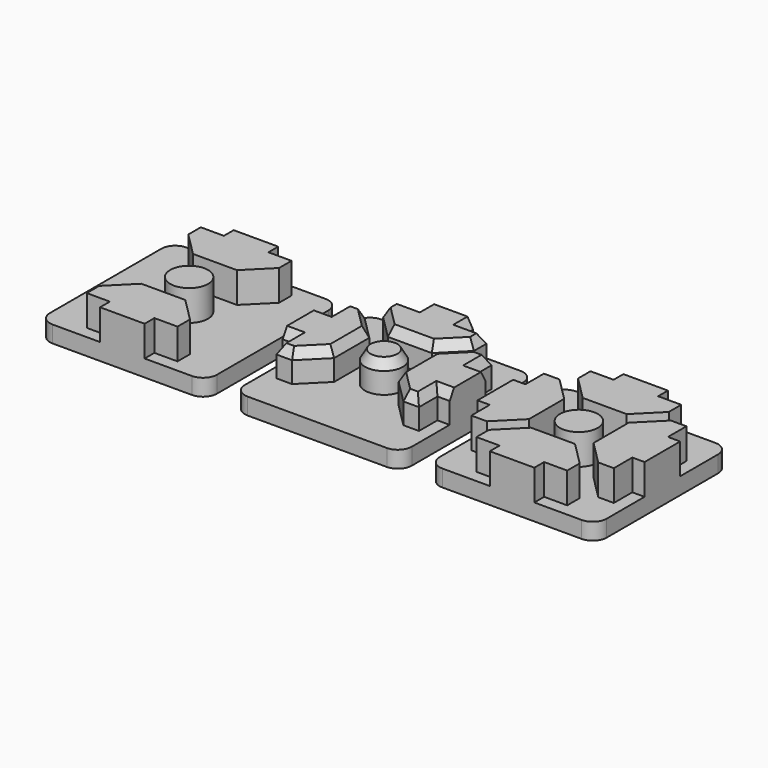
from build123d import *

# Parameters (mm, degrees)
F0_R       = 3.4
F1_DEPTH   = 3
F2_DEPTH   = 5.5
F3_DEPTH   = 3
F4_DEPTH   = 5.5
F5_DEPTH   = 3
F6_DEPTH   = 5.5
F7_SIZE2   = 1.7320508076
F7_SIZE    = 1
F7_2_SIZE2 = 1.7320508076
F7_2_SIZE  = 1
F7_3_SIZE2 = 1.7320508076
F7_3_SIZE  = 1
F8_SIZE2   = 1.7320508076
F8_SIZE    = 1


with BuildPart() as f1:
    # F0 (on Top) → F1 (new body)
    with BuildSketch(Plane.XY):
        with BuildLine():
            Line((-4, 15), (-12.5, 15))
            ThreePointArc((-12.5, 15), (-14.267766953, 14.267766953), (-15, 12.5))
            Line((-15, 12.5), (-15, 4))
            Line((-15, 4), (-12.8, 4))
            Line((-12.8, 4), (-12.8, 8.15))
            Line((-12.8, 8.15), (-10, 8.15))
            Line((-10, 8.15), (-5.8, 3.95))
            Line((-5.8, 3.95), (-5.8, -3.95))
            Line((-5.8, -3.95), (-10, -8.15))
            Line((-10, -8.15), (-12.8, -8.15))
            Line((-12.8, -8.15), (-12.8, -4))
            Line((-12.8, -4), (-15, -4))
            Line((-15, -4), (-15, -12.5))
            ThreePointArc((-15, -12.5), (-14.267766953, -14.267766953), (-12.5, -15))
            Line((-12.5, -15), (-4, -15))
            Line((-4, -15), (-4, -12.8))
            Line((-4, -12.8), (-8.15, -12.8))
            Line((-8.15, -12.8), (-8.15, -10))
            Line((-8.15, -10), (-3.95, -5.8))
            Line((-3.95, -5.8), (3.95, -5.8))
            Line((3.95, -5.8), (8.15, -10))
            Line((8.15, -10), (8.15, -12.8))
            Line((8.15, -12.8), (4, -12.8))
            Line((4, -12.8), (4, -15))
            Line((4, -15), (12.5, -15))
            ThreePointArc((12.5, -15), (14.267766953, -14.267766953), (15, -12.5))
            Line((15, -12.5), (15, -4))
            Line((15, -4), (12.8, -4))
            Line((12.8, -4), (12.8, -8.15))
            Line((12.8, -8.15), (10, -8.15))
            Line((10, -8.15), (5.8, -3.95))
            Line((5.8, -3.95), (5.8, 3.95))
            Line((5.8, 3.95), (10, 8.15))
            Line((10, 8.15), (12.8, 8.15))
            Line((12.8, 8.15), (12.8, 4))
            Line((12.8, 4), (15, 4))
            Line((15, 4), (15, 12.5))
            ThreePointArc((15, 12.5), (14.267766953, 14.267766953), (12.5, 15))
            Line((12.5, 15), (4, 15))
            Line((4, 15), (4, 12.8))
            Line((4, 12.8), (8.15, 12.8))
            Line((8.15, 12.8), (8.15, 10))
            Line((8.15, 10), (3.95, 5.8))
            Line((3.95, 5.8), (-3.95, 5.8))
            Line((-3.95, 5.8), (-8.15, 10))
            Line((-8.15, 10), (-8.15, 12.8))
            Line((-8.15, 12.8), (-4, 12.8))
            Line((-4, 12.8), (-4, 15))
        make_face()
        Circle(F0_R, mode=Mode.SUBTRACT)
        Polygon((15, -4), (15, 4), (12.8, 4), (12.8, 8.15), (10, 8.15), (5.8, 3.95), (5.8, -3.95), (10, -8.15), (12.8, -8.15), (12.8, -4), align=None)
        Polygon((-12.8, 4), (-15, 4), (-15, -4), (-12.8, -4), (-12.8, -8.15), (-10, -8.15), (-5.8, -3.95), (-5.8, 3.95), (-10, 8.15), (-12.8, 8.15), align=None)
        Polygon((-4, -12.8), (-4, -15), (4, -15), (4, -12.8), (8.15, -12.8), (8.15, -10), (3.95, -5.8), (-3.95, -5.8), (-8.15, -10), (-8.15, -12.8), align=None)
        Polygon((4, 15), (-4, 15), (-4, 12.8), (-8.15, 12.8), (-8.15, 10), (-3.95, 5.8), (3.95, 5.8), (8.15, 10), (8.15, 12.8), (4, 12.8), align=None)
        Circle(F0_R)
    extrude(amount=-F1_DEPTH)

    # F0 (on Top) → F2 (join)
    with BuildSketch(Plane.XY):
        Polygon((-12.8, 4), (-15, 4), (-15, -4), (-12.8, -4), (-12.8, -8.15), (-10, -8.15), (-5.8, -3.95), (-5.8, 3.95), (-10, 8.15), (-12.8, 8.15), align=None)
        Polygon((4, 15), (-4, 15), (-4, 12.8), (-8.15, 12.8), (-8.15, 10), (-3.95, 5.8), (3.95, 5.8), (8.15, 10), (8.15, 12.8), (4, 12.8), align=None)
        Polygon((15, -4), (15, 4), (12.8, 4), (12.8, 8.15), (10, 8.15), (5.8, 3.95), (5.8, -3.95), (10, -8.15), (12.8, -8.15), (12.8, -4), align=None)
        Circle(F0_R)
    extrude(amount=F2_DEPTH)

    # F7
    f7_edges = [f1.edges().sort_by_distance(p)[0] for p in [
        (-7.9, -6.05, 5.5),
        (-5.8, 0, 5.5),
        (-7.9, 6.05, 5.5),
        (-11.4, 8.15, 5.5),
        (-12.8, 6.075, 5.5),
        (-13.9, 4, 5.5),
        (-13.9, -4, 5.5),
        (-12.8, -6.075, 5.5),
        (-11.4, -8.15, 5.5),
    ]]
    f7_side = f1.faces().sort_by_distance((-10.334578, 0, 5.5))[0]
    chamfer(f7_edges, length=F7_SIZE, length2=F7_SIZE2, reference=f7_side)

    # F7#2
    f7_2_edges = [f1.edges().sort_by_distance(p)[0] for p in [
        (-3.4, 0, 5.5),
    ]]
    f7_2_side = f1.faces().sort_by_distance((0, 0, 5.5))[0]
    chamfer(f7_2_edges, length=F7_2_SIZE, length2=F7_2_SIZE2, reference=f7_2_side)

    # F7#3
    f7_3_edges = [f1.edges().sort_by_distance(p)[0] for p in [
        (13.9, -4, 5.5),
        (12.8, -6.075, 5.5),
        (11.4, -8.15, 5.5),
        (7.9, -6.05, 5.5),
        (5.8, 0, 5.5),
        (7.9, 6.05, 5.5),
        (11.4, 8.15, 5.5),
        (12.8, 6.075, 5.5),
        (13.9, 4, 5.5),
    ]]
    f7_3_side = f1.faces().sort_by_distance((10.334578, 0, 5.5))[0]
    chamfer(f7_3_edges, length=F7_3_SIZE, length2=F7_3_SIZE2, reference=f7_3_side)

    # F8
    f8_edges = [f1.edges().sort_by_distance(p)[0] for p in [
        (-8.15, 11.4, 5.5),
        (-6.05, 7.9, 5.5),
        (0, 5.8, 5.5),
        (6.05, 7.9, 5.5),
        (8.15, 11.4, 5.5),
        (6.075, 12.8, 5.5),
        (-6.075, 12.8, 5.5),
        (-4, 13.9, 5.5),
        (4, 13.9, 5.5),
    ]]
    f8_side = f1.faces().sort_by_distance((0, 10.334578, 5.5))[0]
    chamfer(f8_edges, length=F8_SIZE, length2=F8_SIZE2, reference=f8_side)


with BuildPart() as f3:
    # F0 (on Top) → F3 (new body, through all)
    with BuildSketch(Plane.XY):
        with BuildLine():
            ThreePointArc((-20, 12.5), (-20.732233047, 14.267766953), (-22.5, 15))
            Line((-22.5, 15), (-31, 15))
            Line((-31, 15), (-31, 12.8))
            Line((-31, 12.8), (-26.85, 12.8))
            Line((-26.85, 12.8), (-26.85, 10))
            Line((-26.85, 10), (-31.05, 5.8))
            Line((-31.05, 5.8), (-38.95, 5.8))
            Line((-38.95, 5.8), (-43.15, 10))
            Line((-43.15, 10), (-43.15, 12.8))
            Line((-43.15, 12.8), (-39, 12.8))
            Line((-39, 12.8), (-39, 15))
            Line((-39, 15), (-47.5, 15))
            ThreePointArc((-47.5, 15), (-49.267766953, 14.267766953), (-50, 12.5))
            Line((-50, 12.5), (-50, 4))
            Line((-50, 4), (-47.8, 4))
            Line((-47.8, 4), (-47.8, 8.15))
            Line((-47.8, 8.15), (-45, 8.15))
            Line((-45, 8.15), (-40.8, 3.95))
            Line((-40.8, 3.95), (-40.8, -3.95))
            Line((-40.8, -3.95), (-45, -8.15))
            Line((-45, -8.15), (-47.8, -8.15))
            Line((-47.8, -8.15), (-47.8, -4))
            Line((-47.8, -4), (-50, -4))
            Line((-50, -4), (-50, -12.5))
            ThreePointArc((-50, -12.5), (-49.267766953, -14.267766953), (-47.5, -15))
            Line((-47.5, -15), (-39, -15))
            Line((-39, -15), (-39, -12.8))
            Line((-39, -12.8), (-43.15, -12.8))
            Line((-43.15, -12.8), (-43.15, -10))
            Line((-43.15, -10), (-38.95, -5.8))
            Line((-38.95, -5.8), (-31.05, -5.8))
            Line((-31.05, -5.8), (-26.85, -10))
            Line((-26.85, -10), (-26.85, -12.8))
            Line((-26.85, -12.8), (-31, -12.8))
            Line((-31, -12.8), (-31, -15))
            Line((-31, -15), (-22.5, -15))
            ThreePointArc((-22.5, -15), (-20.732233047, -14.267766953), (-20, -12.5))
            Line((-20, -12.5), (-20, -4))
            Line((-20, -4), (-22.2, -4))
            Line((-22.2, -4), (-22.2, -8.15))
            Line((-22.2, -8.15), (-25, -8.15))
            Line((-25, -8.15), (-29.2, -3.95))
            Line((-29.2, -3.95), (-29.2, 3.95))
            Line((-29.2, 3.95), (-25, 8.15))
            Line((-25, 8.15), (-22.2, 8.15))
            Line((-22.2, 8.15), (-22.2, 4))
            Line((-22.2, 4), (-20, 4))
            Line((-20, 4), (-20, 12.5))
        make_face()
        with Locations((-35, 0)):
            Circle(F0_R, mode=Mode.SUBTRACT)
        Polygon((-39, -15), (-31, -15), (-31, -12.8), (-26.85, -12.8), (-26.85, -10), (-31.05, -5.8), (-38.95, -5.8), (-43.15, -10), (-43.15, -12.8), (-39, -12.8), align=None)
        Polygon((-20, -4), (-20, 4), (-22.2, 4), (-22.2, 8.15), (-25, 8.15), (-29.2, 3.95), (-29.2, -3.95), (-25, -8.15), (-22.2, -8.15), (-22.2, -4), align=None)
        Polygon((-31, 12.8), (-31, 15), (-39, 15), (-39, 12.8), (-43.15, 12.8), (-43.15, 10), (-38.95, 5.8), (-31.05, 5.8), (-26.85, 10), (-26.85, 12.8), align=None)
        Polygon((-47.8, 4), (-50, 4), (-50, -4), (-47.8, -4), (-47.8, -8.15), (-45, -8.15), (-40.8, -3.95), (-40.8, 3.95), (-45, 8.15), (-47.8, 8.15), align=None)
        with Locations((-35, 0)):
            Circle(F0_R)
    extrude(amount=-F3_DEPTH)

    # F0 (on Top) → F4 (join, through all)
    with BuildSketch(Plane.XY):
        Polygon((-31, 12.8), (-31, 15), (-39, 15), (-39, 12.8), (-43.15, 12.8), (-43.15, 10), (-38.95, 5.8), (-31.05, 5.8), (-26.85, 10), (-26.85, 12.8), align=None)
        with Locations((-35, 0)):
            Circle(F0_R)
        Polygon((-39, -15), (-31, -15), (-31, -12.8), (-26.85, -12.8), (-26.85, -10), (-31.05, -5.8), (-38.95, -5.8), (-43.15, -10), (-43.15, -12.8), (-39, -12.8), align=None)
    extrude(amount=F4_DEPTH)


with BuildPart() as f5:
    # F0 (on Top) → F5 (new body, through all)
    with BuildSketch(Plane.XY):
        with BuildLine():
            ThreePointArc((47.5, -15), (49.267766953, -14.267766953), (50, -12.5))
            Line((50, -12.5), (50, -4))
            Line((50, -4), (47.8, -4))
            Line((47.8, -4), (47.8, -8.15))
            Line((47.8, -8.15), (45, -8.15))
            Line((45, -8.15), (40.8, -3.95))
            Line((40.8, -3.95), (40.8, 3.95))
            Line((40.8, 3.95), (45, 8.15))
            Line((45, 8.15), (47.8, 8.15))
            Line((47.8, 8.15), (47.8, 4))
            Line((47.8, 4), (50, 4))
            Line((50, 4), (50, 12.5))
            ThreePointArc((50, 12.5), (49.267766953, 14.267766953), (47.5, 15))
            Line((47.5, 15), (39, 15))
            Line((39, 15), (39, 12.8))
            Line((39, 12.8), (43.15, 12.8))
            Line((43.15, 12.8), (43.15, 10))
            Line((43.15, 10), (38.95, 5.8))
            Line((38.95, 5.8), (31.05, 5.8))
            Line((31.05, 5.8), (26.85, 10))
            Line((26.85, 10), (26.85, 12.8))
            Line((26.85, 12.8), (31, 12.8))
            Line((31, 12.8), (31, 15))
            Line((31, 15), (22.5, 15))
            ThreePointArc((22.5, 15), (20.732233047, 14.267766953), (20, 12.5))
            Line((20, 12.5), (20, 4))
            Line((20, 4), (22.2, 4))
            Line((22.2, 4), (22.2, 8.15))
            Line((22.2, 8.15), (25, 8.15))
            Line((25, 8.15), (29.2, 3.95))
            Line((29.2, 3.95), (29.2, -3.95))
            Line((29.2, -3.95), (25, -8.15))
            Line((25, -8.15), (22.2, -8.15))
            Line((22.2, -8.15), (22.2, -4))
            Line((22.2, -4), (20, -4))
            Line((20, -4), (20, -12.5))
            ThreePointArc((20, -12.5), (20.732233047, -14.267766953), (22.5, -15))
            Line((22.5, -15), (31, -15))
            Line((31, -15), (31, -12.8))
            Line((31, -12.8), (26.85, -12.8))
            Line((26.85, -12.8), (26.85, -10))
            Line((26.85, -10), (31.05, -5.8))
            Line((31.05, -5.8), (38.95, -5.8))
            Line((38.95, -5.8), (43.15, -10))
            Line((43.15, -10), (43.15, -12.8))
            Line((43.15, -12.8), (39, -12.8))
            Line((39, -12.8), (39, -15))
            Line((39, -15), (47.5, -15))
        make_face()
        with Locations((35, 0)):
            Circle(F0_R, mode=Mode.SUBTRACT)
        Polygon((39, 12.8), (39, 15), (31, 15), (31, 12.8), (26.85, 12.8), (26.85, 10), (31.05, 5.8), (38.95, 5.8), (43.15, 10), (43.15, 12.8), align=None)
        Polygon((20, 4), (20, -4), (22.2, -4), (22.2, -8.15), (25, -8.15), (29.2, -3.95), (29.2, 3.95), (25, 8.15), (22.2, 8.15), (22.2, 4), align=None)
        Polygon((31, -15), (39, -15), (39, -12.8), (43.15, -12.8), (43.15, -10), (38.95, -5.8), (31.05, -5.8), (26.85, -10), (26.85, -12.8), (31, -12.8), align=None)
        Polygon((47.8, -4), (50, -4), (50, 4), (47.8, 4), (47.8, 8.15), (45, 8.15), (40.8, 3.95), (40.8, -3.95), (45, -8.15), (47.8, -8.15), align=None)
        with Locations((35, 0)):
            Circle(F0_R)
    extrude(amount=-F5_DEPTH)

    # F0 (on Top) → F6 (join, through all)
    with BuildSketch(Plane.XY):
        Polygon((20, 4), (20, -4), (22.2, -4), (22.2, -8.15), (25, -8.15), (29.2, -3.95), (29.2, 3.95), (25, 8.15), (22.2, 8.15), (22.2, 4), align=None)
        Polygon((39, 12.8), (39, 15), (31, 15), (31, 12.8), (26.85, 12.8), (26.85, 10), (31.05, 5.8), (38.95, 5.8), (43.15, 10), (43.15, 12.8), align=None)
        Polygon((47.8, -4), (50, -4), (50, 4), (47.8, 4), (47.8, 8.15), (45, 8.15), (40.8, 3.95), (40.8, -3.95), (45, -8.15), (47.8, -8.15), align=None)
        Polygon((31, -15), (39, -15), (39, -12.8), (43.15, -12.8), (43.15, -10), (38.95, -5.8), (31.05, -5.8), (26.85, -10), (26.85, -12.8), (31, -12.8), align=None)
        with Locations((35, 0)):
            Circle(F0_R)
    extrude(amount=F6_DEPTH)


solid = Compound([f1.part, f3.part, f5.part])
